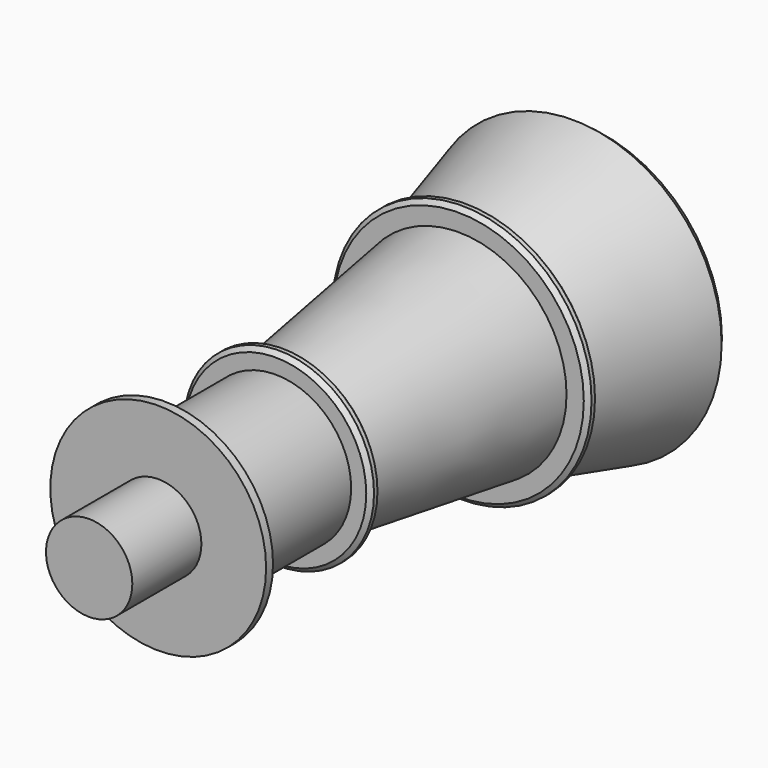
from build123d import *

# Parameters (mm, degrees)
F0_R      = 3.5
F1_DEPTH  = 3.2
F1_TAPER  = 15
F2_R      = 3
F3_DEPTH  = 0.3
F4_SIZE   = 0.2
F5_R      = 2.5
F6_DEPTH  = 5
F6_TAPER  = 8
F7_R      = 2.2
F8_DEPTH  = 0.3
F9_R      = 1.75
F10_DEPTH = 3.2
F11_R     = 2.5
F12_DEPTH = 0.2
F13_R     = 1
F14_DEPTH = 2
F15_SIZE  = 0.1
F16_R     = 3
F17_DEPTH = 11.74
F17_TAPER = 10


with BuildPart() as f1:
    # F0 (on Front) → F1 (new body)
    with BuildSketch(Plane.XZ):
        Circle(F0_R)
    extrude(amount=F1_DEPTH, taper=F1_TAPER)

    # F2 (on face) → F3 (join)
    with BuildSketch(Plane.XZ.offset(3.2)):
        Circle(F2_R)
    extrude(amount=F3_DEPTH)

    # F4
    f4_edges = [f1.edges().sort_by_distance(p)[0] for p in [
        (-3.5, 0, 0),
    ]]
    chamfer(f4_edges, length=F4_SIZE)

    # F5 (on face) → F6 (join)
    with BuildSketch(Plane.XZ.offset(3.5)):
        Circle(F5_R)
    extrude(amount=F6_DEPTH, taper=F6_TAPER)

    # F7 (on face) → F8 (join)
    with BuildSketch(Plane.XZ.offset(8.5)):
        Circle(F7_R)
    extrude(amount=F8_DEPTH)

    # F9 (on face) → F10 (join)
    with BuildSketch(Plane.XZ.offset(8.8)):
        Circle(F9_R)
    extrude(amount=F10_DEPTH)

    # F11 (on face) → F12 (join)
    with BuildSketch(Plane.XZ.offset(12)):
        Circle(F11_R)
    extrude(amount=F12_DEPTH)

    # F13 (on face) → F14 (join)
    with BuildSketch(Plane.XZ.offset(12.2)):
        Circle(F13_R)
    extrude(amount=F14_DEPTH)

    # F15
    f15_edges = [f1.edges().sort_by_distance(p)[0] for p in [
        (-3, -3.5, 0),
        (-2.2, -8.8, 0),
        (-2.2, -8.5, 0),
        (-3, -3.2, 0),
    ]]
    chamfer(f15_edges, length=F15_SIZE)

    # F16 (on face) → F17 (cut, symmetric)
    with BuildSketch(Plane(origin=(0, 0, 0), x_dir=(-1, 0, 0), z_dir=(0, 1, 0))):
        Circle(F16_R)
    extrude(amount=F17_DEPTH, both=True, taper=F17_TAPER, mode=Mode.SUBTRACT)


solid = f1.part
